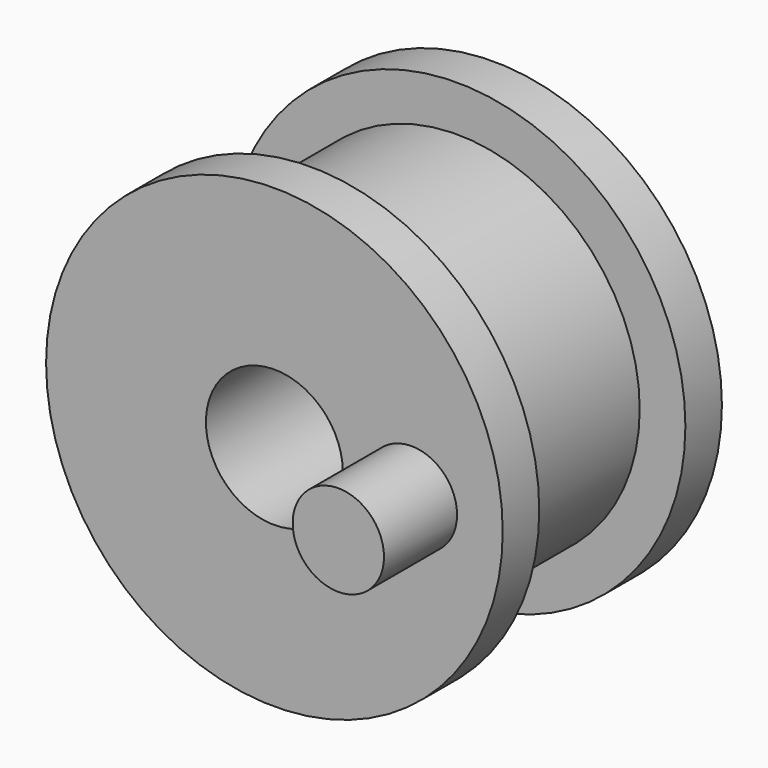
from build123d import *

# Parameters (mm, degrees)
F0_W     = 7.9375
F0_H     = 12.7
F2_R     = 3.175
F3_DEPTH = 6.35


with BuildPart() as f1:
    # F0 (on Top) → F1 (revolve)
    with BuildSketch(Plane.XY):
        Polygon((12.7, 0), (4.7625, 0), (4.7625, -3.175), (15.875, -3.175), (15.875, 0), align=None)
        with Locations((8.73125, 6.35)):
            Rectangle(F0_W, F0_H)
        Polygon((4.7625, 15.875), (4.7625, 12.7), (12.7, 12.7), (15.875, 12.7), (15.875, 15.875), align=None)
    revolve(axis=Axis((0, 17.413363, 0), (0, 1, 0)))

    # F2 (on face) → F3 (join)
    with BuildSketch(Plane.XZ.offset(3.175)):
        with Locations((9.525, 0)):
            Circle(F2_R)
    extrude(amount=F3_DEPTH)


solid = f1.part
